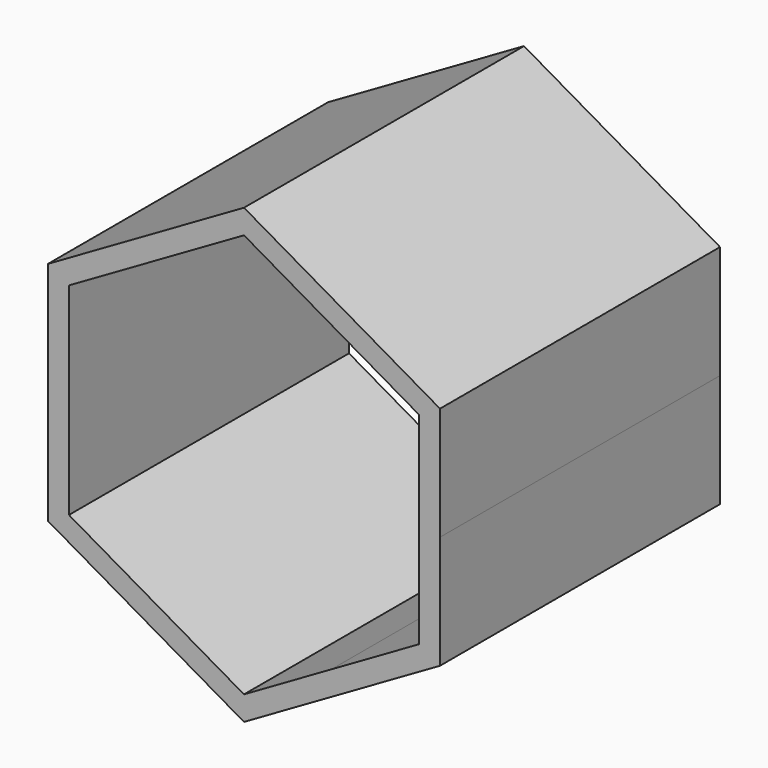
from build123d import *

# Parameters (mm, degrees)
F4_DEPTH = 300


with BuildPart() as f4:
    # F3 (on offset) → F4 (new body)
    with BuildSketch(Plane.XZ.offset(25)):
        Polygon((-168.0019225023, 96.9915152759), (-150.0017165199, 86.5995672107), (0, 173.2070629141), (0, 193.9919104638), align=None)
    extrude(amount=F4_DEPTH)

    # F5: F4 across face


with BuildPart() as f4_1:
    add(f4.part)
    add(f4.part.mirror(Plane(origin=(0, -175, 183.599486689), x_dir=(0, 1, 0), z_dir=(1, 0, 0))))

    # F6: F4 across face


with BuildPart() as f4_2:
    add(f4_1.part)
    add(f4_1.part.mirror(Plane(origin=(159.0018195111, -175, 91.7955412433), x_dir=(0, 1, 0), z_dir=(0.4999828344, 0, -0.8660353141))))

    # F7: F4 across face


with BuildPart() as f4_3:
    add(f4_2.part)
    add(f4_2.part.mirror(Plane(origin=(-159.0018195111, -175, 91.7955412433), x_dir=(0, -1, 0), z_dir=(-0.4999828344, 0, -0.8660353141))))


solid = f4_3.part
